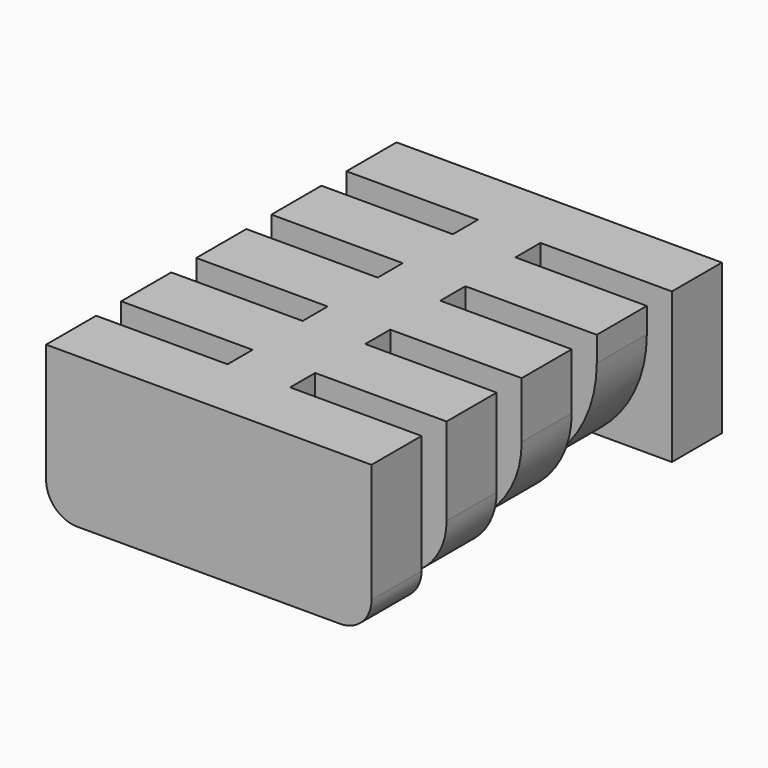
from build123d import *

# Parameters (mm, degrees)
F0_W     = 6.35
F0_H     = 3.175
F0_H_2   = 6.35
F0_W_2   = 13.335
F1_DEPTH = 15.24
F2_R     = 3.175
F3_R     = 6.35
F4_R     = 9.525
F5_R     = 12.7


with BuildPart() as f1:
    # F0 (on Top) → F1 (new body)
    with BuildSketch(Plane.XY):
        Polygon((-16.51, 15.875), (-3.175, 15.875), (3.175, 15.875), (16.51, 15.875), (16.51, 22.225), (-16.51, 22.225), align=None)
        with Locations((0, 14.2875)):
            Rectangle(F0_W, F0_H)
        with Locations((0, 9.525)):
            Rectangle(F0_W, F0_H_2)
        with Locations((-9.8425, 9.525)):
            Rectangle(F0_W_2, F0_H_2)
        with Locations((9.8425, 9.525)):
            Rectangle(F0_W_2, F0_H_2)
        with Locations((0, 4.7625)):
            Rectangle(F0_W, F0_H)
        Rectangle(F0_W, F0_H_2)
        with Locations((9.8425, 0)):
            Rectangle(F0_W_2, F0_H_2)
        with Locations((-9.8425, 0)):
            Rectangle(F0_W_2, F0_H_2)
        with Locations((0, -4.7625)):
            Rectangle(F0_W, F0_H)
        Polygon((-3.175, -10.1355769231), (-3.175, -6.35), (-16.51, -6.35), (-16.51, -12.7), align=None)
        Polygon((3.175, -6.35), (-3.175, -6.35), (-3.175, -10.1355769231), (3.175, -8.9144230769), align=None)
        Polygon((16.51, -12.7), (16.51, -6.35), (3.175, -8.9144230769), (3.175, -12.7), align=None)
        with Locations((0, -14.2875)):
            Rectangle(F0_W, F0_H)
        Polygon((3.175, -15.875), (-3.175, -15.875), (-16.51, -15.875), (-16.51, -22.225), (16.51, -15.875), align=None)
        Polygon((3.175, -8.9144230769), (-3.175, -10.1355769231), (-3.175, -12.7), (3.175, -12.7), align=None)
        Polygon((-3.175, -12.7), (-3.175, -10.1355769231), (-16.51, -12.7), align=None)
        Polygon((16.51, -6.35), (3.175, -6.35), (3.175, -8.9144230769), align=None)
        Polygon((16.51, -22.225), (16.51, -15.875), (-16.51, -22.225), align=None)
    extrude(amount=F1_DEPTH)

    # F2
    f2_edges = [f1.edges().sort_by_distance(p)[0] for p in [
        (-16.51, -19.05, 0),
        (16.51, -19.05, 0),
    ]]
    fillet(f2_edges, radius=F2_R)

    # F3
    f3_edges = [f1.edges().sort_by_distance(p)[0] for p in [
        (-16.51, -9.525, 0),
        (16.51, -9.525, 0),
    ]]
    fillet(f3_edges, radius=F3_R)

    # F4
    f4_edges = [f1.edges().sort_by_distance(p)[0] for p in [
        (-16.51, 0, 0),
        (16.51, 0, 0),
    ]]
    fillet(f4_edges, radius=F4_R)

    # F5
    f5_edges = [f1.edges().sort_by_distance(p)[0] for p in [
        (16.51, 9.525, 0),
        (-16.51, 9.525, 0),
    ]]
    fillet(f5_edges, radius=F5_R)


solid = f1.part
